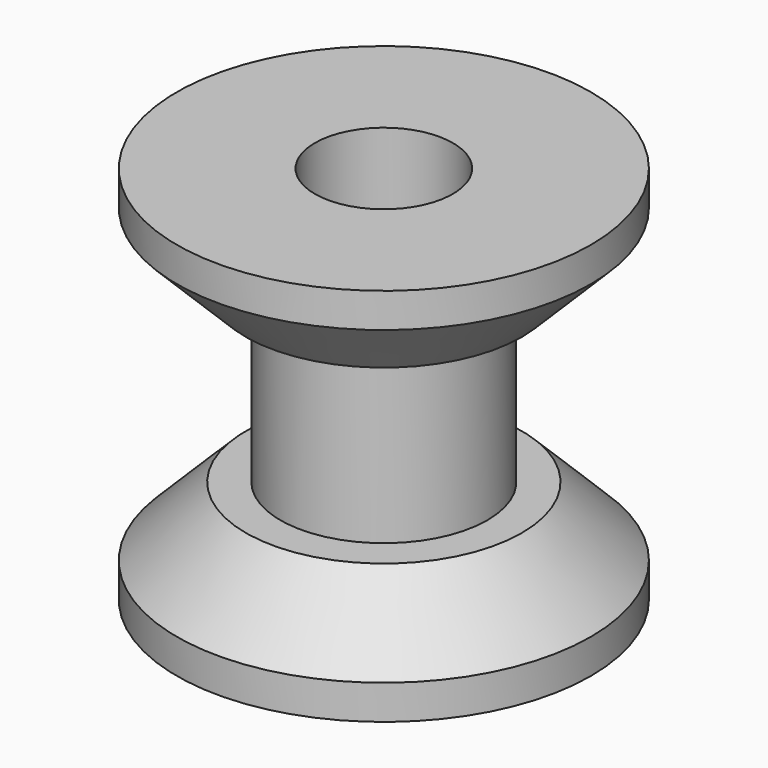
from build123d import *

# Parameters (mm, degrees)
F0_R     = 7.62
F1_DEPTH = 3.81
F2_R     = 3.81
F3_DEPTH = 6.35
F4_R     = 7.62
F5_DEPTH = 3.81
F7_D     = 5.08
F8_SIZE  = 2.54


with BuildPart() as f1:
    # F0 (on Top) → F1 (new body)
    with BuildSketch(Plane.XY):
        with Locations((-5.842393, 4.891916)):
            Circle(F0_R)
    extrude(amount=F1_DEPTH)

    # F2 (on face) → F3 (join)
    with BuildSketch(Plane.XY.offset(3.81)):
        with Locations((-5.842393, 4.891916)):
            Circle(F2_R)
    extrude(amount=F3_DEPTH)

    # F4 (on face) → F5 (join)
    with BuildSketch(Plane.XY.offset(10.16)):
        with Locations((-5.842393, 4.891916)):
            Circle(F4_R)
    extrude(amount=F5_DEPTH)

    # F7 (through all)
    with Locations(Plane.XY.offset(13.97)):
        with Locations((-5.842393, 4.891916)):
            Hole(F7_D / 2)

    # F8
    f8_edges = [f1.edges().sort_by_distance(p)[0] for p in [
        (-13.462393, 4.891916, 10.16),
        (-13.462393, 4.891916, 3.81),
    ]]
    chamfer(f8_edges, length=F8_SIZE)


solid = f1.part
